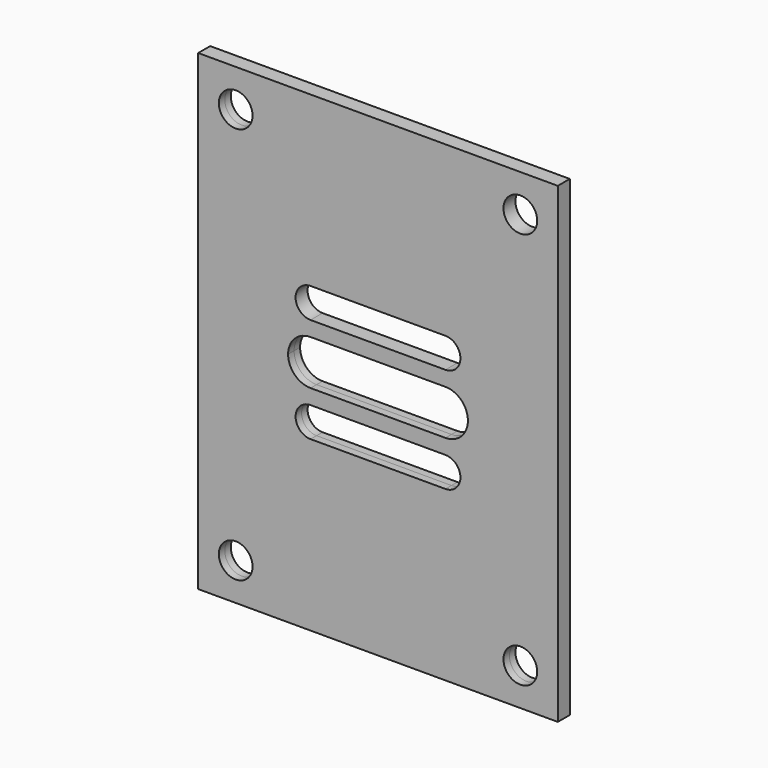
from build123d import *

# Parameters (mm, degrees)
F0_W     = 48
F0_H     = 63
F0_R     = 2.25
F1_DEPTH = 1


with BuildPart() as f1:
    # F0 (on Front) → F1 (new body, symmetric)
    with BuildSketch(Plane.XZ):
        Rectangle(F0_W, F0_H)
        with Locations((-19, -26.5)):
            Circle(F0_R, mode=Mode.SUBTRACT)
        with Locations((19, -26.5)):
            Circle(F0_R, mode=Mode.SUBTRACT)
        with BuildLine():
            Line((9, -9), (-9, -9))
            ThreePointArc((-9, -9), (-11, -7), (-9, -5))
            Line((-9, -5), (9, -5))
            ThreePointArc((9, -5), (11, -7), (9, -9))
        make_face(mode=Mode.SUBTRACT)
        with Locations((-19, 26.5)):
            Circle(F0_R, mode=Mode.SUBTRACT)
        with BuildLine():
            Line((9, -3), (-9, -3))
            ThreePointArc((-9, -3), (-11.1213203436, -2.1213203436), (-12, 0))
            ThreePointArc((-12, 0), (-11.1213203436, 2.1213203436), (-9, 3))
            Line((-9, 3), (0, 3))
            Line((0, 3), (9, 3))
            ThreePointArc((9, 3), (11.1213203436, 2.1213203436), (12, 0))
            ThreePointArc((12, 0), (11.1213203436, -2.1213203436), (9, -3))
        make_face(mode=Mode.SUBTRACT)
        with BuildLine():
            Line((9, 5), (-9, 5))
            ThreePointArc((-9, 5), (-11, 7), (-9, 9))
            Line((-9, 9), (9, 9))
            ThreePointArc((9, 9), (11, 7), (9, 5))
        make_face(mode=Mode.SUBTRACT)
        with Locations((19, 26.5)):
            Circle(F0_R, mode=Mode.SUBTRACT)
    extrude(amount=F1_DEPTH, both=True)


solid = f1.part
